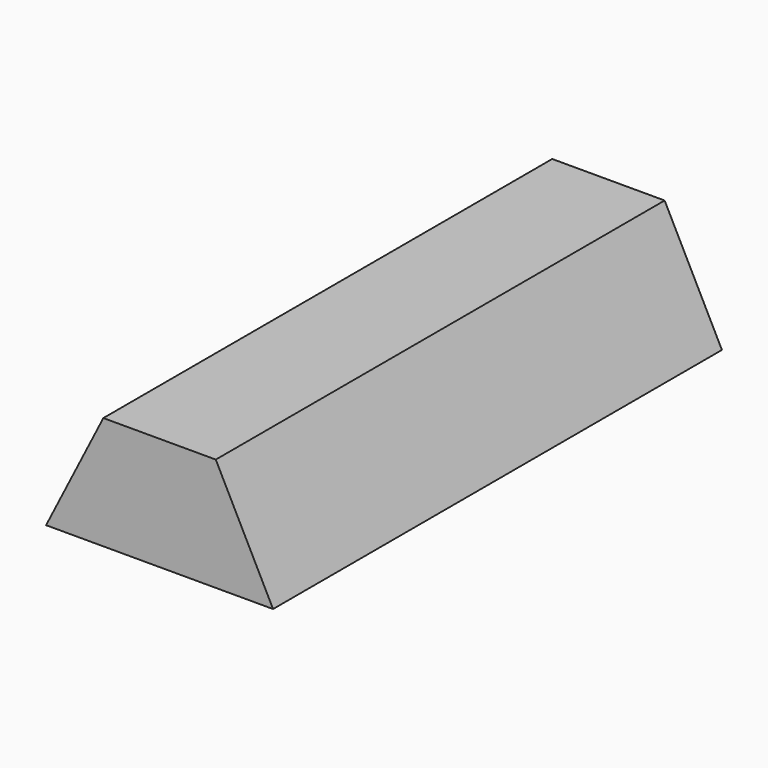
from build123d import *

# Parameters (mm, degrees)
PAD_DEPTH = 100


with BuildPart() as part:
    # Sketch → Pad (new body)
    with BuildSketch(Plane.XZ):
        Polygon((-20.226843, 0), (-10.018903, 20.132334), (10.018903, 20.132334), (20.226843, 0), align=None)
    extrude(amount=PAD_DEPTH)


solid = part.part
